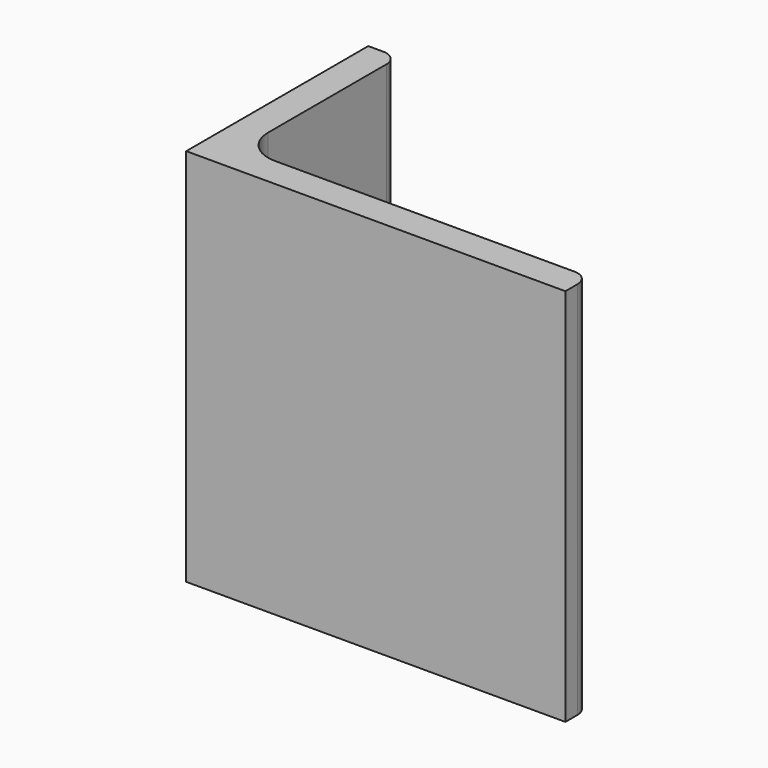
from build123d import *

# Parameters (mm, degrees)
EXTRUDE_DEPTH = 50


with BuildPart() as part:
    # Sketch → Extrude (new body)
    with BuildSketch(Plane.XY):
        with BuildLine():
            Line((0, 0), (50, 0))
            Line((50, 0), (50, 2))
            ThreePointArc((50, 2), (49.414214, 3.414214), (48, 4))
            Line((48, 4), (8.5, 4))
            ThreePointArc((4, 8.5), (5.318019, 5.318019), (8.5, 4))
            Line((4, 28), (4, 8.5))
            ThreePointArc((4, 28), (3.414214, 29.414214), (2, 30))
            Line((0, 30), (2, 30))
            Line((0, 0), (0, 30))
        make_face()
    extrude(amount=EXTRUDE_DEPTH)


solid = part.part
